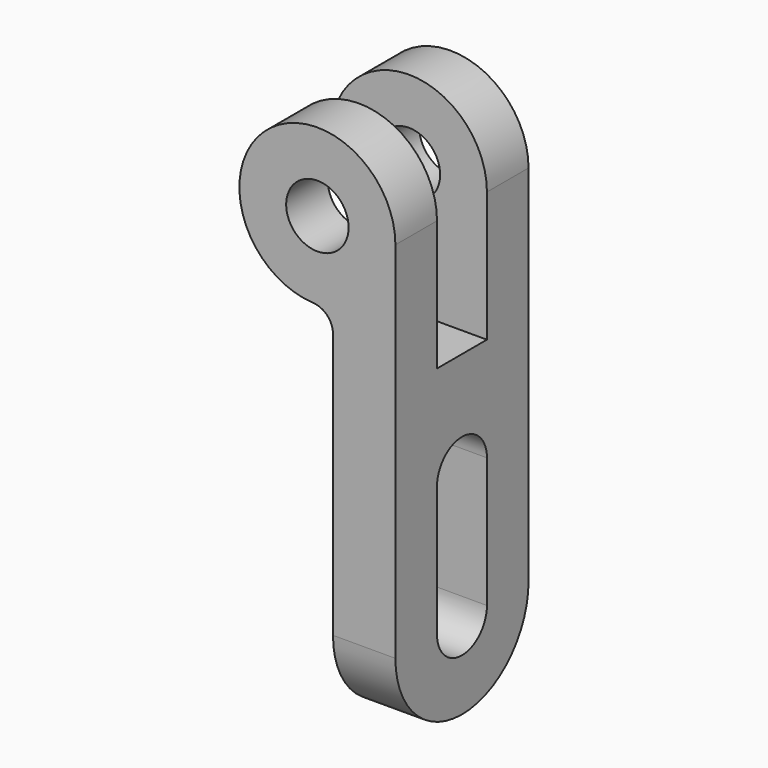
from build123d import *

# Parameters (mm, degrees)
F0_R     = 6
F1_DEPTH = 32
F2_W     = 12
F2_H     = 15.347138
F2_H_2   = 25
F3_DEPTH = 30.001


with BuildPart() as f1:
    # F0 (on Front) → F1 (new body)
    with BuildSketch(Plane.XZ):
        with BuildLine():
            Line((15, -46.960716), (15, 39.039284))
            ThreePointArc((15, 39.039284), (-10.323708, 49.921428), (-0.789474, 24.060074))
            ThreePointArc((-0.789474, 24.060074), (1.901905, 22.818607), (3, 20.065618))
            Line((3, 20.065618), (3, -46.960716))
            Line((3, -46.960716), (15, -46.960716))
        make_face()
        with Locations((0, 39.039284)):
            Circle(F0_R, mode=Mode.SUBTRACT)
    extrude(amount=F1_DEPTH)

    # F2 (on face) → F3 (cut, through all)
    with BuildSketch(Plane.YZ.offset(15)):
        with Locations((-16, 46.712853)):
            Rectangle(F2_W, F2_H)
        with Locations((-16, 26.539284)):
            Rectangle(F2_W, F2_H_2)
        with BuildLine():
            Line((-22, -5.960716), (-22, -30.960716))
            ThreePointArc((-22, -30.960716), (-16, -36.960716), (-10, -30.960716))
            Line((-10, -30.960716), (-10, -5.960716))
            ThreePointArc((-10, -5.960716), (-16, 0.039284), (-22, -5.960716))
        make_face()
        with BuildLine():
            ThreePointArc((-16, -46.960716), (-27.313708, -42.274425), (-32, -30.960716))
            Line((-32, -30.960716), (-32, -46.960716))
            Line((-32, -46.960716), (-16, -46.960716))
        make_face()
        with BuildLine():
            ThreePointArc((0, -30.960716), (-4.686292, -42.274425), (-16, -46.960716))
            Line((-16, -46.960716), (0, -46.960716))
            Line((0, -46.960716), (0, -30.960716))
        make_face()
    extrude(amount=-F3_DEPTH, mode=Mode.SUBTRACT)


solid = f1.part
